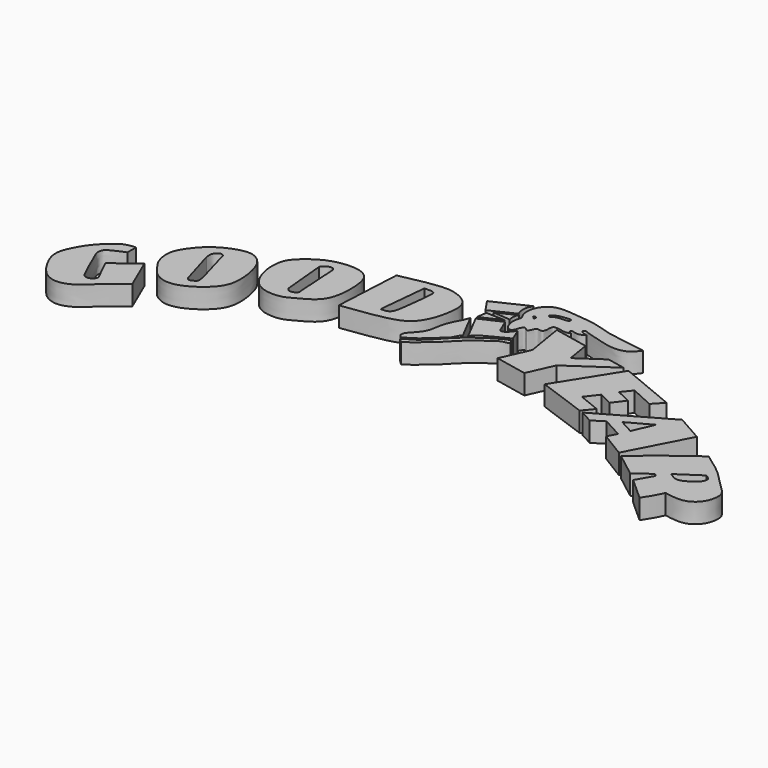
from build123d import *

# Parameters (mm, degrees)
F1_DEPTH = 7.62


with BuildPart() as f1:
    # F0 (on Top) → F1 (new body)
    with BuildSketch(Plane.XY):
        with BuildLine():
            Line((-59.8576515913, 15.4813658446), (-59.7697272897, 19.6458827704))
            add(Edge.make_bspline(
                [(-59.7697272897, 19.6458827704), (-60.8045802238, 19.6897784896), (-64.1050694296, 19.0849969587), (-66.5879847444, 17.3741884209), (-70.3066333627, 13.9831390633), (-73.2592314533, 10.0758974312), (-75.8568664861, 4.8646876114), (-76.3143573798, 2.5273009245), (-76.3386264188, -0.1308010066), (-75.0717962995, -3.6789260849), (-72.5008604249, -8.0754405282), (-69.4058962384, -11.4566076956), (-64.5262579878, -13.2317809144), (-58.8818237316, -11.0409963446), (-55.3778019727, -7.5162456198), (-51.1283326105, -3.910557249), (-47.5539763201, -1.0209620634), (-45.8099097013, 0.355010794)],
                knots=[0, 0, 0, 0, 0.0637228382, 0.1196227695, 0.1884018169, 0.2600330263, 0.3347066794, 0.3826974947, 0.4319818985, 0.4926928507, 0.5636536392, 0.6304277082, 0.6992568281, 0.7741446525, 0.8439132015, 0.9179230653, 1, 1, 1, 1], degree=3))
            Line((-45.8099097013, 0.355010794), (-51.246214658, 12.9607347772))
            Line((-51.246214658, 12.9607347772), (-60.6256835163, 5.8755846694))
            Line((-60.6256835163, 5.8755846694), (-56.410510093, -2.6936687063))
            add(Edge.make_bspline(
                [(-59.8576515913, 15.4813658446), (-60.733794174, 15.147527999), (-62.4086082569, 14.5093712239), (-64.3717405723, 13.4234410115), (-66.5489640426, 12.3952383552), (-67.1355221817, 9.7835324016), (-65.9693161309, 7.4376323585), (-64.0015059175, 2.7336730194), (-62.4502795104, -0.6749388079), (-61.0155978392, -3.3207992277), (-60.7129566927, -4.4256581223), (-58.9023622539, -5.2335102794), (-56.8936322963, -4.2060994477), (-56.5634003078, -3.1722968036), (-56.410510093, -2.6936687063)],
                knots=[0, 0, 0, 0, 0.0882605338, 0.1687168137, 0.2489048881, 0.3296621874, 0.4157487741, 0.5361183845, 0.6431148571, 0.7330881749, 0.7880728859, 0.8578399155, 0.9341829786, 1, 1, 1, 1], degree=3))
        make_face()
    extrude(amount=F1_DEPTH)


with BuildPart() as f1b:
    # F0 (on Top) → F1, piece 2 (new body)
    with BuildSketch(Plane.XY):
        with BuildLine():
            add(Edge.make_bspline(
                [(-49.8907119036, 22.3052892834), (-49.8478870939, 23.7873957958), (-48.9722849549, 26.589104452), (-44.3174310574, 32.8163378152), (-38.6592870547, 36.424859765), (-33.3857436103, 38.2327029636), (-29.1899587853, 38.3345240535), (-24.9562830557, 35.3930548222), (-22.9137686124, 29.5191389013), (-22.1414721002, 23.9100320175), (-22.5649619303, 17.4194356151), (-27.4690308201, 12.1884500501), (-32.6999268067, 8.8737739115), (-38.2733544247, 7.2929987996), (-43.7659981389, 9.2742263225), (-46.891908564, 13.5809675818), (-49.2562192615, 16.9199644813), (-49.9381216647, 20.6645040427), (-49.8907119036, 22.3052892834)],
                knots=[0, 0, 0, 0, 0.0549350162, 0.1279042569, 0.1974326319, 0.2592704011, 0.3120567895, 0.3697179731, 0.4349766537, 0.4986451471, 0.5645951171, 0.6341830582, 0.7004809828, 0.7629444993, 0.8249498394, 0.8851265932, 0.9391834777, 1, 1, 1, 1], degree=3))
        make_face()
        with BuildLine():
            add(Edge.make_bspline(
                [(-39.3599234521, 28.044577688), (-39.4462101101, 28.8142421004), (-39.6136419224, 30.3077094626), (-38.4701433309, 32.0869896403), (-36.8148407198, 32.6341186435), (-36.2905977923, 32.005410927), (-36.0497906804, 31.7166186869)],
                knots=[0, 0, 0, 0, 0.2910794605, 0.5648145698, 0.800100791, 1, 1, 1, 1], degree=3))
            Line((-36.0497906804, 31.7166186869), (-31.8456962705, 16.837367788))
            add(Edge.make_bspline(
                [(-31.8456962705, 16.837367788), (-31.6990484173, 15.7922566779), (-31.4003894676, 13.9873628396), (-33.0822221185, 13.3657478874), (-34.5232835731, 12.6869239615), (-35.2937276688, 13.9250140943), (-35.4026779532, 14.5789505914)],
                knots=[0, 0, 0, 0, 0.3046995144, 0.5332373911, 0.7499686741, 1, 1, 1, 1], degree=3))
            Line((-35.4026779532, 14.5789505914), (-39.3599234521, 28.044577688))
        make_face(mode=Mode.SUBTRACT)
    extrude(amount=F1_DEPTH)


with BuildPart() as f1c:
    # F0 (on Top) → F1, piece 3 (new body)
    with BuildSketch(Plane.XY):
        with BuildLine():
            add(Edge.make_bspline(
                [(-18.2003825903, 42.6425226033), (-16.9204937698, 44.170979528), (-12.7529267037, 47.8270864244), (-6.4833370908, 50.1758944664), (-1.3534400782, 50.516559467), (2.3963191751, 50.1035767557), (6.8224775843, 47.6887214032), (7.7976928023, 39.5598098725), (7.2649118086, 32.3280206074), (4.6092245442, 27.1101253597), (-1.5429926672, 23.8885418293), (-5.8659858504, 21.3896494949), (-12.3806010343, 21.644340769), (-16.6080998499, 24.2259570493), (-19.0489288318, 28.4400510404), (-20.5274047941, 33.757100575), (-20.1892331632, 39.5171492626), (-19.1076027956, 41.5591105265), (-18.2003825903, 42.6425226033)],
                knots=[0, 0, 0, 0, 0.0717264383, 0.1411449415, 0.2003434596, 0.2512415794, 0.3067971668, 0.3807165439, 0.4528443412, 0.5151462487, 0.5836124028, 0.6433200838, 0.7089709959, 0.7668280207, 0.8241205242, 0.8868933229, 0.9491583386, 1, 1, 1, 1], degree=3))
        make_face()
        with BuildLine():
            Line((-7.3503432795, 27.4524707347), (-8.9003490284, 44.1925302148))
            add(Edge.make_bspline(
                [(-8.9003490284, 44.1925302148), (-8.6779577379, 44.5394247411), (-8.1982655581, 45.2876671346), (-6.7271989258, 46.1778837206), (-5.0778121695, 46.27073938), (-4.6201466145, 45.5420560985), (-4.4053327292, 45.200034976)],
                knots=[0, 0, 0, 0, 0.2389293944, 0.5153644363, 0.7725272368, 1, 1, 1, 1], degree=3))
            Line((-4.4053327292, 45.200034976), (-3.3978291322, 28.7699755281))
            add(Edge.make_bspline(
                [(-7.3503432795, 27.4524707347), (-7.0939624858, 27.1124793032), (-6.583046577, 26.4107730559), (-5.6218970367, 26.2400945205), (-4.6400609016, 26.3860833576), (-3.0490328442, 27.065792265), (-3.3279622707, 28.4530031208), (-3.3978291322, 28.7699755281)],
                knots=[0, 0, 0, 0, 0.2037382216, 0.3742470679, 0.5573825335, 0.7798908956, 1, 1, 1, 1], degree=3))
        make_face(mode=Mode.SUBTRACT)
    extrude(amount=F1_DEPTH)


with BuildPart() as f1d:
    # F0 (on Top) → F1, piece 4 (new body)
    with BuildSketch(Plane.XY):
        with BuildLine():
            Line((12.7525208518, 54.3326698244), (11.3983321935, 28.2645393163))
            add(Edge.make_bspline(
                [(12.7525208518, 54.3326698244), (15.084229791, 54.844192418), (19.9155787279, 55.9040777654), (28.5041466481, 57.3411935891), (33.999229324, 56.8064697492), (40.7592818345, 53.248331949), (40.4442035573, 45.35073814), (38.5319249195, 38.3692254582), (34.9581280804, 33.1687967441), (28.7249282749, 30.8938469888), (20.9428367831, 29.5458318164), (14.6868118558, 28.705997989), (11.3983321935, 28.2645393163)],
                knots=[0, 0, 0, 0, 0.1015327627, 0.2103779752, 0.2986976534, 0.3941567241, 0.4936564746, 0.5948986489, 0.6855242664, 0.7789067121, 0.8837823076, 1, 1, 1, 1], degree=3))
        make_face()
        with BuildLine():
            Line((22.7396637201, 34.1891162097), (24.6016718447, 52.9784820974))
            add(Edge.make_bspline(
                [(24.6016718447, 52.9784820974), (25.4940884288, 53.0133537319), (27.0450112929, 53.0739568361), (28.8073138389, 52.6769977468), (28.660605516, 49.7947580422), (27.7455384607, 41.2048994249), (26.9521515105, 36.194872154), (26.2067267485, 35.1258378592), (25.1746654824, 34.246291623), (23.6414052934, 34.210289684), (22.7396637201, 34.1891162097)],
                knots=[0, 0, 0, 0, 0.1199005303, 0.2083740679, 0.3239169553, 0.5518629203, 0.7204737186, 0.7999341476, 0.8823371938, 1, 1, 1, 1], degree=3))
        make_face(mode=Mode.SUBTRACT)
    extrude(amount=F1_DEPTH)


with BuildPart() as f1e:
    # F0 (on Top) → F1, piece 5 (new body)
    with BuildSketch(Plane.XY):
        with BuildLine():
            add(Edge.make_bspline(
                [(47.4611185491, 46.5704239905), (47.1883681944, 45.7661829908), (46.618278384, 44.0851967291), (44.9579933261, 41.5015090534), (43.2720348949, 36.994364675), (42.9795043086, 31.9406896146), (39.8928555578, 28.4983284629), (37.9065483848, 26.5196279564), (37.7118312693, 24.7299683213), (38.622861164, 23.9911137668), (39.093349129, 23.6095432192)],
                knots=[0, 0, 0, 0, 0.1137294592, 0.237711903, 0.3932759555, 0.5529741184, 0.7037569044, 0.8215066408, 0.9078197348, 1, 1, 1, 1], degree=3))
            add(Edge.make_bspline(
                [(39.093349129, 23.6095432192), (40.8339068544, 24.6422529475), (44.2488800212, 26.7059413575), (48.5062910418, 31.0983288245), (51.0283535068, 33.0003045464), (51.6061245208, 34.9118668219), (52.3084728213, 35.8278718381), (52.9228523374, 36.0042825341)],
                knots=[0, 0, 0, 0, 0.2649694404, 0.5299849853, 0.7164164586, 0.8622645189, 1, 1, 1, 1], degree=3))
            Line((52.9228523374, 36.0042825341), (47.4611185491, 46.5704239905))
        make_face()
    extrude(amount=F1_DEPTH)


with BuildPart() as f1f:
    # F0 (on Top) → F1, piece 6 (new body)
    with BuildSketch(Plane.XY):
        with BuildLine():
            Line((39.5255573094, 22.6894263178), (40.9611612558, 21.3101189584))
            add(Edge.make_bspline(
                [(67.1933442354, 41.3051396608), (66.817956062, 40.9412733409), (65.9975354952, 40.8564904968), (64.3670388994, 40.5819954974), (62.2605813926, 39.366001959), (57.8788876114, 36.0032813588), (53.9249378303, 32.8830617617), (49.765239653, 28.0970138445), (46.9484373656, 26.062712689), (44.2069332071, 23.4779773119), (42.0654672823, 22.0477216703), (40.9611612558, 21.3101189584)],
                knots=[0, 0, 0, 0, 0.0673612925, 0.1410234895, 0.23291277, 0.37138731, 0.5093737325, 0.6571656042, 0.7685249934, 0.8820382629, 1, 1, 1, 1], degree=3))
            Line((67.1933442354, 41.3051396608), (65.8802688122, 43.0816523731))
            add(Edge.make_bspline(
                [(65.8802688122, 43.0816523731), (65.4738911751, 42.6141659879), (64.2980226756, 42.2689192056), (62.3629458758, 41.2180434659), (59.5710685424, 39.5270009592), (56.8492331264, 37.511697424), (53.7337516352, 35.4689851949), (48.8948431952, 30.5096404187), (48.0700858454, 29.3364795266), (46.0087057506, 27.510983353), (43.9556814261, 25.3020283906), (41.4074799413, 24.159348702), (40.1339707471, 23.1646489411), (39.5255573094, 22.6894263178)],
                knots=[0, 0, 0, 0, 0.0701422244, 0.1488220357, 0.2450188714, 0.3413614689, 0.4482701294, 0.5858524112, 0.6512653109, 0.7365394688, 0.8302425339, 0.9183482831, 1, 1, 1, 1], degree=3))
        make_face()
    extrude(amount=F1_DEPTH)


with BuildPart() as f1g:
    # F0 (on Top) → F1, piece 7 (new body)
    with BuildSketch(Plane.XY):
        with BuildLine():
            Line((44.5073880255, 58.2756400108), (47.8146784008, 53.3759519458))
            Line((47.8146784008, 53.3759519458), (57.0628382266, 57.7856712043))
            add(Edge.make_bspline(
                [(57.4303157628, 64.4002482295), (57.061574373, 63.6517070239), (56.3059406258, 62.1177783366), (56.349761936, 59.1827418515), (56.8509113599, 58.2008817627), (57.0628382266, 57.7856712043)],
                knots=[0, 0, 0, 0, 0.3548566186, 0.7271807392, 1, 1, 1, 1], degree=3))
            Line((57.4303157628, 64.4002482295), (44.5073880255, 58.2756400108))
        make_face()
    extrude(amount=F1_DEPTH)


with BuildPart() as f1h:
    # F0 (on Top) → F1, piece 8 (new body)
    with BuildSketch(Plane.XY):
        with BuildLine():
            Line((57.6870932768, 57.0870762274), (50.6319962442, 53.743429482))
            Line((50.6319962442, 53.743429482), (57.3078244925, 53.1922131777))
            add(Edge.make_bspline(
                [(57.6870932768, 57.0870762274), (57.3774953202, 56.4701031861), (57.0925210563, 55.9313056547), (57.0255017822, 53.8517731969), (57.3078244925, 53.1922131777)],
                knots=[0, 0, 0, 0, 0.4321300752, 1, 1, 1, 1], degree=3))
        make_face()
    extrude(amount=F1_DEPTH)


with BuildPart() as f1i:
    # F0 (on Top) → F1, piece 9 (new body)
    with BuildSketch(Plane.XY):
        Polygon((49.1715855896, 52.1896518767), (48.5492832959, 48.3175516129), (56.2934875488, 51.9130751491), align=None)
    extrude(amount=F1_DEPTH)


with BuildPart() as f1j:
    # F0 (on Top) → F1, piece 10 (new body)
    with BuildSketch(Plane.XY):
        with BuildLine():
            Line((57.1870356798, 51.0750189424), (48.9353847441, 47.2896913111))
            Line((48.9353847441, 47.2896913111), (54.3052169743, 36.9013404429))
            add(Edge.make_bspline(
                [(54.3052169743, 36.9013404429), (54.6527955237, 37.4481801275), (55.5665217531, 38.8857307587), (60.8387193304, 41.5773857016), (64.160292669, 43.266199483), (65.8246055245, 44.1123992205)],
                knots=[0, 0, 0, 0, 0.2344886381, 0.6164316513, 1, 1, 1, 1], degree=3))
            Line((65.8246055245, 44.1123992205), (63.8290271163, 48.8632693887))
            add(Edge.make_bspline(
                [(58.3586542298, 48.5210029506), (58.619022585, 47.9508405373), (59.0905102195, 46.9183628107), (59.4858424904, 45.5038257468), (61.511770523, 45.7847379627), (62.9430487159, 47.6862256567), (63.8290271163, 48.8632693887)],
                knots=[0, 0, 0, 0, 0.2391394777, 0.4330453544, 0.6490482615, 1, 1, 1, 1], degree=3))
            Line((58.3586542298, 48.5210029506), (57.1870356798, 51.0750189424))
        make_face()
    extrude(amount=F1_DEPTH)


with BuildPart() as f1k:
    # F0 (on Top) → F1, piece 11 (new body)
    with BuildSketch(Plane.XY):
        with BuildLine():
            add(Edge.make_bspline(
                [(61.1841715872, 48.1443591416), (60.6785026779, 48.4256529876), (59.4081893871, 49.132303732), (58.3073678009, 53.6202581353), (59.8985650487, 56.2258777158), (57.9904385998, 58.3950181819), (58.0690319928, 62.9281263609), (60.1067823682, 66.1711613185), (63.2449554438, 68.2965667144), (68.1416123226, 68.35588881), (74.0460392304, 67.5177123121), (78.8871887994, 67.2818006693), (86.8733807493, 64.455961808), (91.4193192634, 64.0857610071), (97.0888279947, 62.9790434965), (99.9799595649, 62.6026358557), (101.3297140598, 62.4269060791)],
                knots=[0, 0, 0, 0, 0.0474275947, 0.1191449638, 0.1760499798, 0.2301918463, 0.3019653542, 0.3690272639, 0.4339457896, 0.5098370404, 0.5937313402, 0.671590452, 0.7706198326, 0.8464785951, 0.9283269539, 1, 1, 1, 1], degree=3))
            add(Edge.make_bspline(
                [(77.1762132645, 57.8498728573), (76.945348976, 57.6387731929), (76.3922923865, 57.1330645191), (74.3193610384, 57.2360541512), (72.819584493, 57.6342589678), (70.0394718857, 58.0012262715), (70.4162085582, 54.9363191513), (69.6562681654, 52.9468536057), (67.2264983108, 54.1328738825), (66.6635092422, 51.6380544342), (65.5597146824, 50.5259288781), (64.3271060541, 52.5808406744), (62.803024827, 50.3240358121), (62.6984246744, 48.6027882227), (61.5594610572, 47.9248166084), (61.1841715872, 48.1443591416)],
                knots=[0, 0, 0, 0, 0.0582446713, 0.1395304503, 0.2179972792, 0.3019853158, 0.3957395829, 0.4719965132, 0.5512460255, 0.6369041427, 0.6989927512, 0.7707137084, 0.8526797284, 0.9336902798, 1, 1, 1, 1], degree=3))
            add(Edge.make_bspline(
                [(81.7532464862, 59.7248002887), (81.1340261679, 59.2919104013), (79.9361332186, 58.454477054), (78.1174972161, 58.6008153917), (76.2817821261, 59.3398327738), (76.2653534607, 58.0626939459), (76.863491505, 57.9229398486), (77.1762132645, 57.8498728573)],
                knots=[0, 0, 0, 0, 0.2500494739, 0.4837252475, 0.6968100338, 0.841484586, 1, 1, 1, 1], degree=3))
            add(Edge.make_bspline(
                [(101.3297140598, 62.4269060791), (100.4803591825, 61.2600389314), (98.7525638802, 58.8863461087), (94.02335087, 57.8524020822), (88.8677782379, 58.7484435083), (84.3124633813, 60.3405446083), (81.2010501457, 60.8895861386), (79.9793361223, 61.8542118018), (78.8353808302, 60.8996339635), (79.7794602314, 60.3588690958), (80.6174155923, 59.8026932976), (81.3714882498, 59.7509805043), (81.7532464862, 59.7248002887)],
                knots=[0, 0, 0, 0, 0.1319923658, 0.2685047153, 0.4163547676, 0.5592449775, 0.6722797843, 0.7467888535, 0.8090971181, 0.865877974, 0.9320991318, 1, 1, 1, 1], degree=3))
        make_face()
        with BuildLine():
            add(Edge.make_bspline(
                [(61.7413260043, 59.2402368784), (61.878849696, 59.4401277087), (62.88372522, 59.4808985236), (62.8641334806, 58.2376565631), (61.9451955199, 58.2095416068), (62.5440735531, 59.0382231391), (61.8177002802, 58.6391167792), (61.6434803351, 59.0980180955), (61.7413260043, 59.2402368784)],
                knots=[0, 0, 0, 0, 0.2053910496, 0.4082314369, 0.5571352489, 0.7122141461, 0.8538679086, 1, 1, 1, 1], degree=3))
        make_face(mode=Mode.SUBTRACT)
        with BuildLine():
            add(Edge.make_bspline(
                [(65.2149543166, 62.8919973969), (65.4377127276, 63.2452265339), (66.3997839737, 63.8775592095), (68.4774955173, 64.4048133415), (70.1432815318, 64.5176138063), (72.1741976269, 64.8289998917), (72.0749182349, 63.1923518273), (69.2150530548, 63.3452821862), (66.8579153592, 62.9954903491), (66.169945185, 62.055795611), (64.9508074402, 62.0858277489), (65.0666797726, 62.6568777038), (65.2149543166, 62.8919973969)],
                knots=[0, 0, 0, 0, 0.0993961704, 0.2192034994, 0.3312378084, 0.4367202821, 0.5113753084, 0.6441329949, 0.7720836434, 0.8572053964, 0.9338389882, 1, 1, 1, 1], degree=3))
        make_face(mode=Mode.SUBTRACT)
    extrude(amount=F1_DEPTH)


with BuildPart() as f1l:
    # F0 (on Top) → F1, piece 12 (new body)
    with BuildSketch(Plane.XY):
        Polygon((85.8593930934, 53.9964003893), (72.6589486003, 56.6978864372), (75.0577375293, 41.9704541564), (70.233199125, 31.2080310462), (82.5425234041, 28.6889137683), (86.9958773255, 38.6233106256), (103.6758124828, 50.0593855977), (96.8053135668, 51.4654410509), (87.3297917487, 44.9688463765), align=None)
    extrude(amount=F1_DEPTH)


with BuildPart() as f1m:
    # F0 (on Top) → F1, piece 13 (new body)
    with BuildSketch(Plane.XY):
        Polygon((106.0950532556, 49.4171790779), (91.9072031975, 26.8217157573), (110.8243390918, 19.9905280024), (114.1523495317, 24.0191761404), (105.7447344065, 27.4347700179), (109.423071146, 32.1640521288), (114.6778315306, 29.5366737992), (118.0934235454, 34.1783761978), (112.4883443117, 36.8057563901), (115.553624928, 40.571667254), (124.4867146015, 36.4554412663), (128.0774623156, 40.3089299798), align=None)
    extrude(amount=F1_DEPTH)


with BuildPart() as f1n:
    # F0 (on Top) → F1, piece 14 (new body)
    with BuildSketch(Plane.XY):
        Polygon((138.6485427177, 34.5917081271), (112.28715922, 19.5280665342), (117.193043232, 16.8697610497), (121.5187236667, 19.5865482092), (129.3333470821, 15.3521113098), (127.5519877672, 11.8456501514), (137.1622085571, 5.949602928), (149.0177959204, 28.703821823), align=None)
        Polygon((131.0436673427, 19.1397599902), (125.4850984395, 22.1517297321), (134.5636219866, 27.1164040185), align=None, mode=Mode.SUBTRACT)
    extrude(amount=F1_DEPTH)


with BuildPart() as f1o:
    # F0 (on Top) → F1, piece 15 (new body)
    with BuildSketch(Plane.XY):
        with BuildLine():
            add(Edge.make_bspline(
                [(139.1377300024, 4.5717395842), (141.0228913128, 6.2867330027), (145.0810185058, 9.9785451513), (153.5829103112, 16.4761235488), (157.8273316012, 19.5326500687), (159.7693562508, 20.9311563522)],
                knots=[0, 0, 0, 0, 0.3200081187, 0.6888713667, 1, 1, 1, 1], degree=3))
            add(Edge.make_bspline(
                [(139.1377300024, 4.5717395842), (140.54371982, 3.5182907643), (143.448535939, 1.3418346659), (146.5848664156, -1.1328037122), (148.2031494379, -2.4096670095)],
                knots=[0, 0, 0, 0, 0.4840202477, 1, 1, 1, 1], degree=3))
            add(Edge.make_bspline(
                [(148.2031494379, -2.4096670095), (148.9543882351, -1.9706058587), (150.7730135314, -0.1834718923), (153.0440913547, 0.8676554984), (154.350951314, 1.862536883)],
                knots=[0, 0, 0, 0, 0.4622788981, 1, 1, 1, 1], degree=3))
            Line((154.350951314, 1.862536883), (155.2996635437, 1.0372925317))
            Line((155.2996635437, 1.0372925317), (151.6459286213, -5.2711139433))
            Line((151.6459286213, -5.2711139433), (160.3809595108, -13.1081473082))
            add(Edge.make_bspline(
                [(164.5625680685, -5.7440702803), (163.969079173, -6.9415107601), (162.8056524906, -9.4022829619), (161.0742500222, -11.9806865433), (160.3809595108, -13.1081473082)],
                knots=[0, 0, 0, 0, 0.4919382882, 1, 1, 1, 1], degree=3))
            add(Edge.make_bspline(
                [(159.7693562508, 20.9311563522), (162.7594804938, 18.8504205715), (168.5145070815, 14.8456740239), (174.6936146061, 7.8053681236), (179.0341427927, 4.3107529403), (177.7572619368, -2.9855508835), (172.1691024256, -7.1354983652), (167.1745514839, -6.2218683038), (164.5625680685, -5.7440702803)],
                knots=[0, 0, 0, 0, 0.20157016, 0.3879576686, 0.5253549186, 0.679361478, 0.8323167565, 1, 1, 1, 1], degree=3))
        make_face()
        with BuildLine():
            add(Edge.make_bspline(
                [(166.9937521219, 10.8223408461), (167.8370439901, 10.3143362251), (169.5692429009, 9.2708480993), (168.0187545911, 6.0115157632), (164.1138738947, 3.6864654316), (161.2466730144, 2.7610672528), (159.2357898353, 4.1778752877), (158.1656187773, 4.9318857491)],
                knots=[0, 0, 0, 0, 0.1783232322, 0.3662922889, 0.605311793, 0.7899510521, 1, 1, 1, 1], degree=3))
            Line((158.1656187773, 4.9318857491), (166.9937521219, 10.8223408461))
        make_face(mode=Mode.SUBTRACT)
    extrude(amount=F1_DEPTH)


solid = Compound([f1.part, f1b.part, f1c.part, f1d.part, f1e.part, f1f.part, f1g.part, f1h.part, f1i.part, f1j.part, f1k.part, f1l.part, f1m.part, f1n.part, f1o.part])
